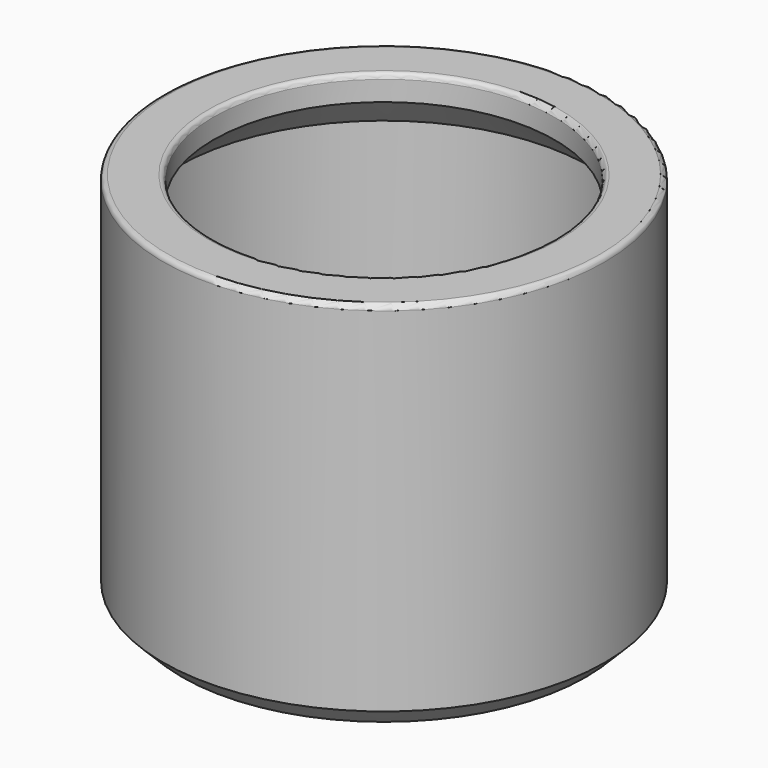
from build123d import *

# Parameters (mm, degrees)
SKETCH_R         = 44
SKETCH_R_2       = 30
PAD_DEPTH        = 5
SKETCH001_R      = 44
SKETCH001_R_2    = 41
PAD001_DEPTH     = 65
SKETCH002_R      = 44
SKETCH002_R_2    = 34
PAD002_DEPTH     = 5
HOLE_D           = 3.6
HOLE_DEPTH       = 5
HOLE_CBORE_D     = 6.2
HOLE_CBORE_DEPTH = 3
CHAMFER_SIZE     = 6.9
FILLET_R         = 1
CHAMFER001_SIZE  = 1
CHAMFER002_SIZE  = 3.8
FILLET001_R      = 3
CHAMFER003_SIZE  = 0.2


with BuildPart() as part:
    # Sketch → Pad (new body)
    with BuildSketch(Plane.XY):
        Circle(SKETCH_R)
        Circle(SKETCH_R_2, mode=Mode.SUBTRACT)
    extrude(amount=PAD_DEPTH)

    # Sketch001 (on DatumPlane) → Pad001 (join)
    with BuildSketch(Plane.XY.offset(5)):
        Circle(SKETCH001_R)
        Circle(SKETCH001_R_2, mode=Mode.SUBTRACT)
    extrude(amount=PAD001_DEPTH)

    # Sketch002 (on DatumPlane) → Pad002 (join)
    with BuildSketch(Plane.XY.offset(70)):
        Circle(SKETCH002_R)
        Circle(SKETCH002_R_2, mode=Mode.SUBTRACT)
    extrude(amount=PAD002_DEPTH)

    # Hole
    with Locations(Plane.XY.offset(5)):
        with Locations((-36.6, 0), (18.3, 31.69653), (18.3, -31.69653)):
            CounterBoreHole(HOLE_D / 2, HOLE_CBORE_D / 2, HOLE_CBORE_DEPTH, depth=HOLE_DEPTH)

    # Chamfer
    chamfer_edges = [part.edges().sort_by_distance(p)[0] for p in [
        (-41, 0, 70),
    ]]
    chamfer(chamfer_edges, length=CHAMFER_SIZE)

    # Fillet
    fillet_edges = [part.edges().sort_by_distance(p)[0] for p in [
        (-34, 0, 75),
        (-44, 0, 75),
    ]]
    fillet(fillet_edges, radius=FILLET_R)

    # Chamfer001
    chamfer001_edges = [part.edges().sort_by_distance(p)[0] for p in [
        (-41, 0, 5),
    ]]
    chamfer(chamfer001_edges, length=CHAMFER001_SIZE)

    # Chamfer002
    chamfer002_edges = [part.edges().sort_by_distance(p)[0] for p in [
        (-44, 0, 0),
    ]]
    chamfer(chamfer002_edges, length=CHAMFER002_SIZE)

    # Fillet001
    fillet001_edges = [part.edges().sort_by_distance(p)[0] for p in [
        (-30, 0, 5),
    ]]
    fillet(fillet001_edges, radius=FILLET001_R)

    # Chamfer003
    chamfer003_edges = [part.edges().sort_by_distance(p)[0] for p in [
        (-30, 0, 0),
    ]]
    chamfer(chamfer003_edges, length=CHAMFER003_SIZE)


solid = part.part
